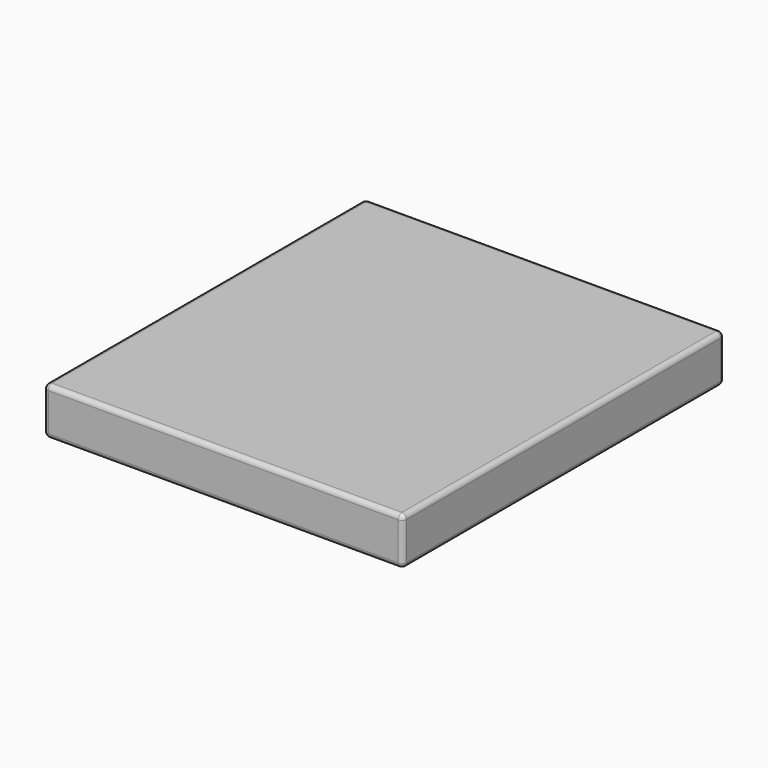
from build123d import *

# Parameters (mm, degrees)
SKETCH_W  = 760
SKETCH_H  = 850
PAD_DEPTH = 100
FILLET_R  = 10


with BuildPart() as part:
    # Sketch → Pad (new body)
    with BuildSketch(Plane.XY):
        Rectangle(SKETCH_W, SKETCH_H)
    extrude(amount=PAD_DEPTH)

    # Fillet
    fillet_edges = [part.edges().sort_by_distance(p)[0] for p in [
        (-380, 0, 100),
        (0, -425, 100),
        (380, 0, 100),
        (0, 425, 100),
        (-380, -425, 50),
        (380, -425, 50),
        (0, -425, 0),
        (380, 425, 50),
        (380, 0, 0),
        (-380, 0, 0),
        (0, 425, 0),
        (-380, 425, 50),
    ]]
    fillet(fillet_edges, radius=FILLET_R)


solid = part.part
